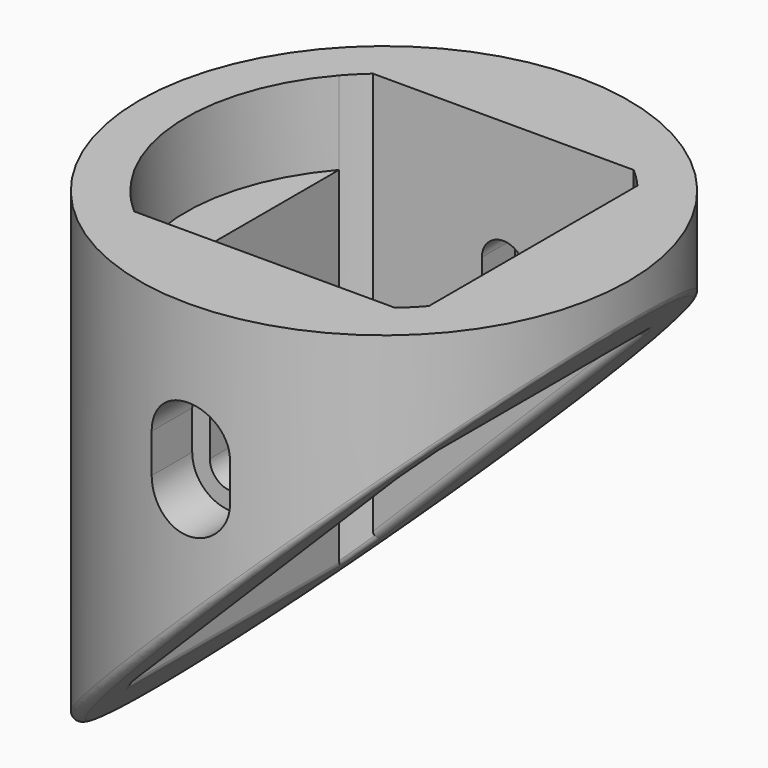
from build123d import *

# Parameters (mm, degrees)
CYLINDER010_R        = 25
CYLINDER010_DEPTH    = 63.906332
POCKET071_DEPTH      = 35.001
POCKET071_DEPTH_BACK = 28.907332
POCKET084_DEPTH      = 8.5
POCKET085_DEPTH      = 25.001
POCKET085_DEPTH_BACK = 25.001
POCKET086_DEPTH      = 183.331174
FILLET004_R          = 0.75


with BuildPart() as part:
    # Cylinder010 → Cylinder010 (join)
    with BuildSketch(Plane.XY.offset(-35)):
        Circle(CYLINDER010_R)
    extrude(amount=CYLINDER010_DEPTH)

    # Sketch132 → Pocket071 (cut, two sides)
    with BuildSketch(Plane.XY) as pocket071_sk:
        with BuildLine():
            Line((-13.322913, 15.25), (13.322913, 15.25))
            ThreePointArc((15.25, 13.322913), (14.318912, 14.318912), (13.322913, 15.25))
            Line((15.25, 13.322913), (15.25, -13.322913))
            ThreePointArc((13.322913, -15.25), (14.318912, -14.318912), (15.25, -13.322913))
            Line((-13.322913, -15.25), (13.322913, -15.25))
            ThreePointArc((-15.25, -13.322913), (-14.318912, -14.318912), (-13.322913, -15.25))
            Line((-15.25, 13.322913), (-15.25, -13.322913))
            ThreePointArc((-13.322913, 15.25), (-14.318912, 14.318912), (-15.25, 13.322913))
        make_face()
    extrude(amount=-POCKET071_DEPTH, mode=Mode.SUBTRACT)
    extrude(pocket071_sk.sketch, amount=POCKET071_DEPTH_BACK, mode=Mode.SUBTRACT)

    # Sketch140 → Pocket084 (cut)
    with BuildSketch(Plane.XY.offset(28.906332)):
        with BuildLine():
            ThreePointArc((-13.322913, 15.25), (-20.25, 0), (-13.322913, -15.25))
            Line((-13.322913, 15.25), (-13.322913, -15.25))
        make_face()
    extrude(amount=-POCKET084_DEPTH, mode=Mode.SUBTRACT)

    # Sketch130 → Pocket085 (cut, two sides)
    with BuildSketch(Plane.XZ) as pocket085_sk:
        Polygon((-26.7, -26.7), (26.7, 26.7), (26.7, -50.7), (-26.7, -50.7), align=None)
        with BuildLine():
            ThreePointArc((2.2, 16), (0, 18.2), (-2.2, 16))
            Line((-2.2, 16), (-2.2, 12))
            ThreePointArc((-2.2, 12), (0, 9.8), (2.2, 12))
            Line((2.2, 16), (2.2, 12))
        make_face()
    extrude(amount=-POCKET085_DEPTH, mode=Mode.SUBTRACT)
    extrude(pocket085_sk.sketch, amount=POCKET085_DEPTH_BACK, mode=Mode.SUBTRACT)

    # Sketch131 → Pocket086 (cut, through all)
    with BuildSketch(Plane.XZ.offset(19.5)):
        with BuildLine():
            ThreePointArc((4, 16), (0, 20), (-4, 16))
            Line((-4, 16), (-4, 12))
            ThreePointArc((-4, 12), (0, 8), (4, 12))
            Line((4, 16), (4, 12))
        make_face()
    pocket086 = extrude(amount=POCKET086_DEPTH, mode=Mode.SUBTRACT)

    # Mirrored004: Pocket086 across XZ
    add(pocket086.mirror(Plane.XZ), mode=Mode.SUBTRACT)

    # Fillet004
    fillet004_edges = [part.edges().sort_by_distance(p)[0] for p in [
        (15.25, 0, 15.25),
        (14.308102, -14.329715, 14.308102),
        (0, -15.25, 0),
        (14.308102, 14.329715, 14.308102),
        (0, 15.25, 0),
        (-15.25, 0, -15.25),
        (-14.308102, -14.329715, -14.308102),
        (-14.308102, 14.329715, -14.308102),
        (-24.999995, 0.015949, -24.999995),
    ]]
    fillet(fillet004_edges, radius=FILLET004_R)


with BuildPart() as part_1:
    # Body022026 placement: moved
    add(part.part.moved(Location((-2.5, 0, 850.970563))))


solid = part_1.part
